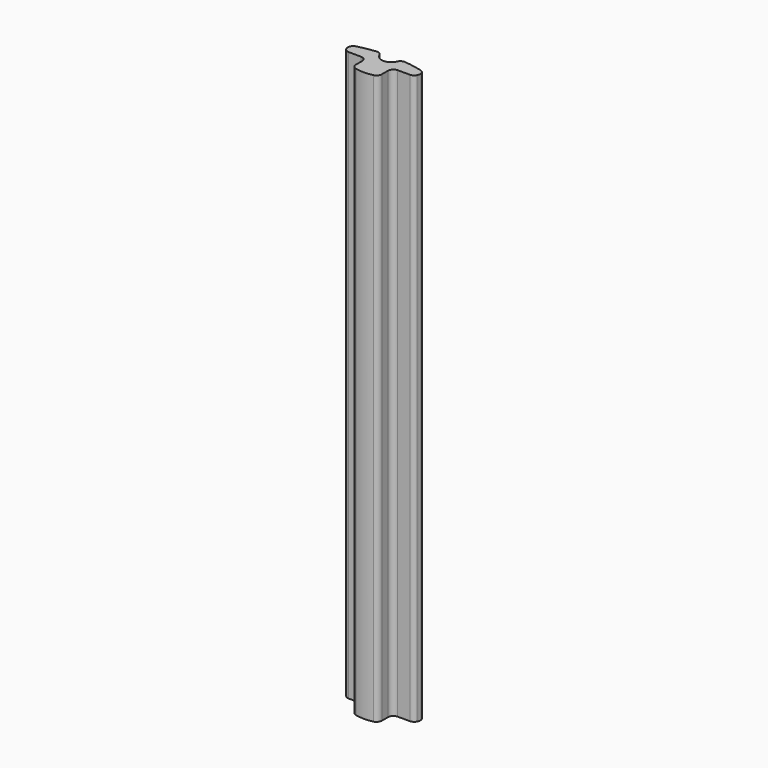
from build123d import *

# Parameters (mm, degrees)
BOX007_W          = 2.42
BOX007_H          = 1.69
BOX007_DEPTH      = 55
BOX008_W          = 2.42
BOX008_H          = 1.69
BOX008_DEPTH      = 55
CYLINDER002_R     = 0.9
CYLINDER002_DEPTH = 55
EXTRUDE011_DEPTH  = 53
FILLET_R          = 0.5


with BuildPart() as obj1:
    # Box007 → Box007 (new body)
    with BuildSketch(Plane(origin=(-3.63, 8.809483, 0), x_dir=(1, 0, 0), z_dir=(0, 0, 1))):
        with Locations((1.21, 0.845)):
            Rectangle(BOX007_W, BOX007_H)
    extrude(amount=BOX007_DEPTH)


with BuildPart() as cubo_der001:
    # Box008 → Box008 (new body)
    with BuildSketch(Plane(origin=(1.21, 8.809483, 0), x_dir=(1, 0, 0), z_dir=(0, 0, 1))):
        with Locations((1.21, 0.845)):
            Rectangle(BOX008_W, BOX008_H)
    extrude(amount=BOX008_DEPTH)


with BuildPart() as cilindro001:
    # Cylinder002 → Cylinder002 (new body)
    with BuildSketch(Plane(origin=(0, 11.9, 0), x_dir=(1, 0, 0), z_dir=(0, 0, 1))):
        Circle(CYLINDER002_R)
    extrude(amount=CYLINDER002_DEPTH)


with BuildPart() as obj2:
    # Sketch011 → Extrude011 (new body)
    with BuildSketch(Plane(origin=(0, -0.2, 0), x_dir=(1, 0, 0), z_dir=(0, 0, 1))):
        with BuildLine():
            ThreePointArc((-3.52341, 11.59655), (0, 8.899483), (3.52341, 11.59655))
            ThreePointArc((3.52341, 11.59655), (0, 12.12), (-3.52341, 11.59655))
        make_face()
    extrude(amount=EXTRUDE011_DEPTH)

    # Cut007: cut Cilindro001
    add(cilindro001.part, mode=Mode.SUBTRACT)

    # Cut008: cut Cubo der001
    add(cubo_der001.part, mode=Mode.SUBTRACT)

    # Cut009: cut obj1
    add(obj1.part, mode=Mode.SUBTRACT)

    # Fillet
    fillet_edges = [obj2.edges().sort_by_distance(p)[0] for p in [
        (-3.146427, 10.499483, 26.5),
        (-3.52341, 11.39655, 26.5),
        (-1.21, 10.499483, 26.5),
        (-0.899899, 11.886545, 26.5),
        (0.899899, 11.886545, 26.5),
        (3.52341, 11.39655, 26.5),
        (3.146427, 10.499483, 26.5),
        (1.21, 10.499483, 26.5),
        (1.21, 8.90588, 26.5),
        (-1.21, 8.90588, 26.5),
    ]]
    fillet(fillet_edges, radius=FILLET_R)


with BuildPart() as obj2_1:
    # Clone019 placement: moved
    add(obj2.part.moved(Location((0, -20.2, 0))))


solid = obj2_1.part
